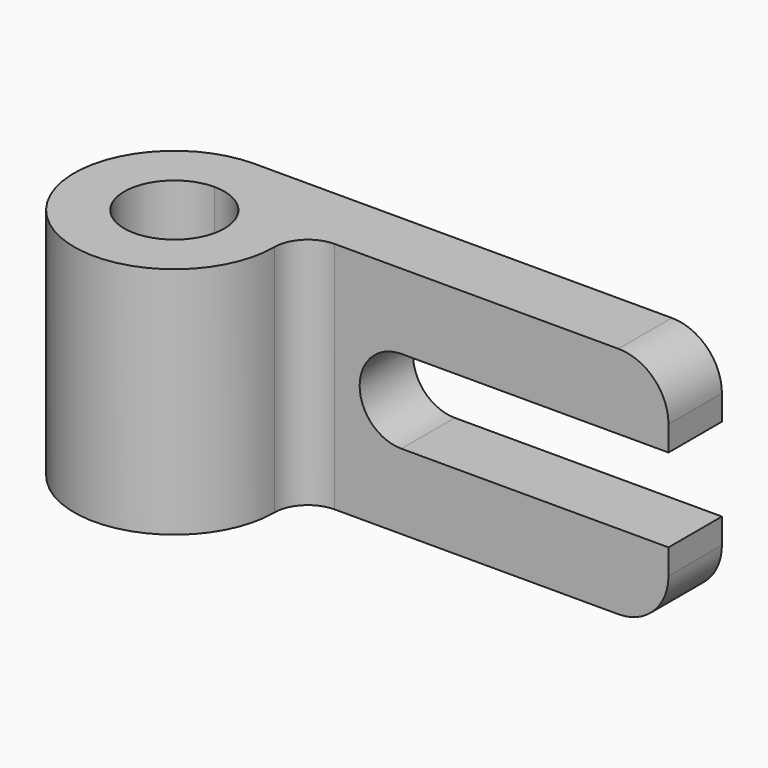
from build123d import *

# Parameters (mm, degrees)
F1_DEPTH = 44.45
F3_DEPTH = 12.701


with BuildPart() as f1:
    # F0 (on Top) → F1 (new body)
    with BuildSketch(Plane.XY):
        with BuildLine():
            ThreePointArc((9.525, -19.05), (-6.7351920908, -25.7851920908), (0, -9.525))
            Line((0, -9.525), (0, 0))
            ThreePointArc((0, 0), (-13.4703841816, -32.5203841816), (19.05, -19.05))
            Line((19.05, -19.05), (9.525, -19.05))
        make_face()
        with BuildLine():
            ThreePointArc((7.0995158286, -12.7), (8.8979917191, -15.6512695949), (9.525, -19.05))
            Line((9.525, -19.05), (19.05, -19.05))
            ThreePointArc((19.05, -19.05), (18.7756525614, -15.8286073053), (17.9605122421, -12.7))
            Line((17.9605122421, -12.7), (7.0995158286, -12.7))
        make_face()
        with BuildLine():
            Line((0, 0), (0, -9.525))
            ThreePointArc((0, -9.525), (3.8885649667, -10.3549043996), (7.0995158286, -12.7))
            Line((7.0995158286, -12.7), (17.9605122421, -12.7))
            ThreePointArc((17.9605122421, -12.7), (10.9985226281, -3.4957401333), (0, 0))
        make_face()
        Polygon((88.9, 0), (19.05, 0), (19.05, -12.7), (25.4, -12.7), (88.9, -12.7), align=None)
        with BuildLine():
            Line((19.05, 0), (0, 0))
            ThreePointArc((0, 0), (10.9985226281, -3.4957401333), (17.9605122421, -12.7))
            Line((17.9605122421, -12.7), (19.05, -12.7))
            Line((19.05, -12.7), (19.05, 0))
        make_face()
        with BuildLine():
            ThreePointArc((17.9605122421, -12.7), (18.7756525614, -15.8286073053), (19.05, -19.05))
            Line((19.05, -19.05), (19.05, -12.7))
            Line((19.05, -12.7), (17.9605122421, -12.7))
        make_face()
        with BuildLine():
            Line((19.05, -12.7), (19.05, -19.05))
            ThreePointArc((19.05, -19.05), (20.9098719395, -14.5598719395), (25.4, -12.7))
            Line((25.4, -12.7), (19.05, -12.7))
        make_face()
    extrude(amount=F1_DEPTH)

    # F2 (on face) → F3 (cut, through all)
    with BuildSketch(Plane.XZ.offset(12.7)):
        with BuildLine():
            Line((38.1, 14.3002), (88.9, 14.3002))
            Line((88.9, 14.3002), (88.9, 22.2377))
            Line((88.9, 22.2377), (88.9, 30.1752))
            Line((88.9, 30.1752), (38.1, 30.1752))
            ThreePointArc((38.1, 30.1752), (30.1625, 22.2377), (38.1, 14.3002))
        make_face()
        with BuildLine():
            ThreePointArc((79.375, 44.45), (86.1101920908, 41.6601920908), (88.9, 34.925))
            Line((88.9, 34.925), (88.9, 44.45))
            Line((88.9, 44.45), (79.375, 44.45))
        make_face()
        with BuildLine():
            ThreePointArc((88.9, 9.525), (86.1101920908, 2.7898079092), (79.375, 0))
            Line((79.375, 0), (88.9, 0))
            Line((88.9, 0), (88.9, 9.525))
        make_face()
    extrude(amount=-F3_DEPTH, mode=Mode.SUBTRACT)


solid = f1.part
